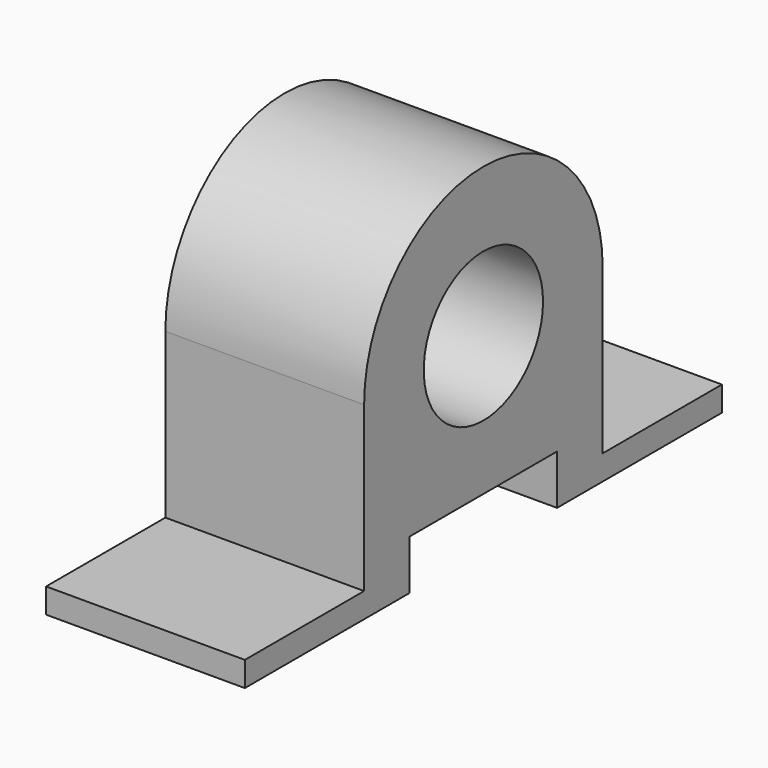
from build123d import *

# Parameters (mm, degrees)
F0_W     = 30
F0_H     = 5
F0_W_2   = 2.9347892106
F0_R     = 15
F1_DEPTH = 40


with BuildPart() as f1:
    # F0 (on Right) → F1 (new body)
    with BuildSketch(Plane.YZ):
        with Locations((-45, -35.5)):
            Rectangle(F0_W, F0_H)
        with Locations((45, -35.5)):
            Rectangle(F0_W, F0_H)
        with Locations((-28.5326053947, -35.5)):
            Rectangle(F0_W_2, F0_H)
        with Locations((28.5326053947, -35.5)):
            Rectangle(F0_W_2, F0_H)
        with BuildLine():
            ThreePointArc((-21.2494555861, -21.1768892261), (-27.7261940012, -11.4567956344), (-30, 0))
            Line((-30, 0), (-30, -33))
            Line((-30, -33), (-27.0652107894, -33))
            Line((-27.0652107894, -33), (-27.0652107894, -38))
            Line((-27.0652107894, -38), (-21.2494555861, -38))
            Line((-21.2494555861, -38), (-21.2494555861, -21.1768892261))
        make_face()
        with BuildLine():
            Line((30, -33), (30, 0))
            ThreePointArc((30, 0), (27.7261940012, -11.4567956344), (21.2494555861, -21.1768892261))
            Line((21.2494555861, -21.1768892261), (21.2494555861, -38))
            Line((21.2494555861, -38), (27.0652107894, -38))
            Line((27.0652107894, -38), (27.0652107894, -33))
            Line((27.0652107894, -33), (30, -33))
        make_face()
        with BuildLine():
            Line((21.2494555861, -38), (21.2494555861, -21.1768892261))
            ThreePointArc((21.2494555861, -21.1768892261), (16.3693424189, -25.1404977829), (10.7703296143, -28))
            Line((10.7703296143, -28), (18.5327846557, -28))
            Line((18.5327846557, -28), (18.5327846557, -38))
            Line((18.5327846557, -38), (21.2494555861, -38))
        make_face()
        with BuildLine():
            ThreePointArc((-10.7703296143, -28), (-16.3693424189, -25.1404977829), (-21.2494555861, -21.1768892261))
            Line((-21.2494555861, -21.1768892261), (-21.2494555861, -38))
            Line((-21.2494555861, -38), (-18.5327846557, -38))
            Line((-18.5327846557, -38), (-18.5327846557, -28))
            Line((-18.5327846557, -28), (-10.7703296143, -28))
        make_face()
        with BuildLine():
            ThreePointArc((21.2494555861, -21.1768892261), (27.7261940012, -11.4567956344), (30, 0))
            ThreePointArc((30, 0), (0, 30), (-30, 0))
            ThreePointArc((-30, 0), (-27.7261940012, -11.4567956344), (-21.2494555861, -21.1768892261))
            ThreePointArc((-21.2494555861, -21.1768892261), (-16.3693424189, -25.1404977829), (-10.7703296143, -28))
            Line((-10.7703296143, -28), (0, -28))
            Line((0, -28), (10.7703296143, -28))
            ThreePointArc((10.7703296143, -28), (16.3693424189, -25.1404977829), (21.2494555861, -21.1768892261))
        make_face()
        Circle(F0_R, mode=Mode.SUBTRACT)
    extrude(amount=F1_DEPTH)


solid = f1.part
